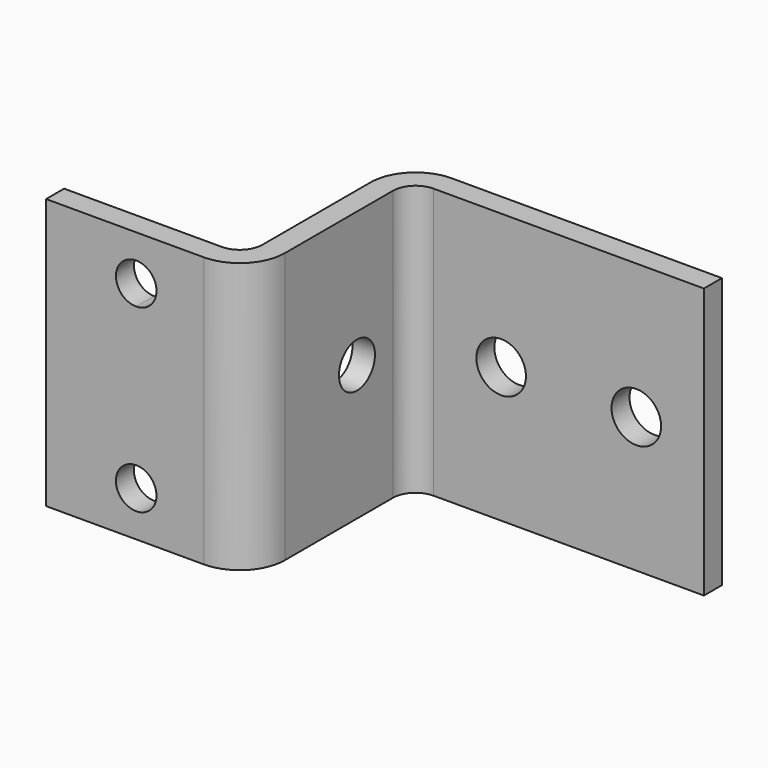
from build123d import *

# Parameters (mm, degrees)
F1_DEPTH = 60
F3_DEPTH = 106.9
F5_DEPTH = 25


with BuildPart() as f1:
    # F0 (on Top) → F1 (new body)
    with BuildSketch(Plane.XY):
        with BuildLine():
            Line((0, 5), (0, 0))
            Line((0, 0), (35, 0))
            ThreePointArc((35, 0), (42.071068, 2.928932), (45, 10))
            Line((45, 10), (45, 40))
            ThreePointArc((45, 40), (46.464466, 43.535534), (50, 45))
            Line((50, 45), (110, 45))
            Line((110, 45), (110, 50))
            Line((110, 50), (50, 50))
            ThreePointArc((50, 50), (42.928932, 47.071068), (40, 40))
            Line((40, 40), (40, 10))
            ThreePointArc((40, 10), (38.535534, 6.464466), (35, 5))
            Line((35, 5), (0, 5))
        make_face()
    extrude(amount=F1_DEPTH)

    # F2 (on face) → F3 (cut)
    with BuildSketch(Plane.XZ):
        with BuildLine():
            ThreePointArc((24.5, 10), (23.181981, 13.181981), (20, 14.5))
            ThreePointArc((20, 14.5), (16.818019, 6.818019), (24.5, 10))
        make_face()
        with BuildLine():
            ThreePointArc((24.5, 50), (23.181981, 53.181981), (20, 54.5))
            Line((20, 54.5), (20, 50))
            Line((20, 50), (20, 45.5))
            ThreePointArc((20, 45.5), (23.181981, 46.818019), (24.5, 50))
        make_face()
        with BuildLine():
            Line((20, 50), (20, 54.5))
            ThreePointArc((20, 54.5), (15.5, 50), (20, 45.5))
            Line((20, 45.5), (20, 50))
        make_face()
        with BuildLine():
            ThreePointArc((100.5, 30), (95, 35.5), (89.5, 30))
            ThreePointArc((89.5, 30), (95, 24.5), (100.5, 30))
        make_face()
        with BuildLine():
            ThreePointArc((70.5, 30), (68.889087, 33.889087), (65, 35.5))
            Line((65, 35.5), (65, 30))
            Line((65, 30), (70.5, 30))
        make_face()
        with BuildLine():
            Line((65, 30), (65, 35.5))
            ThreePointArc((65, 35.5), (61.110913, 26.110913), (70.5, 30))
            Line((70.5, 30), (65, 30))
        make_face()
    extrude(amount=-F3_DEPTH, mode=Mode.SUBTRACT)

    # F4 (on face) → F5 (cut)
    with BuildSketch(Plane(origin=(40, 0, 0), x_dir=(0, -1, 0), z_dir=(-1, 0, 0))):
        with BuildLine():
            ThreePointArc((-35, 30), (-30, 25), (-25, 30))
            ThreePointArc((-25, 30), (-30, 35), (-35, 30))
        make_face()
    extrude(amount=-F5_DEPTH, mode=Mode.SUBTRACT)


solid = f1.part
